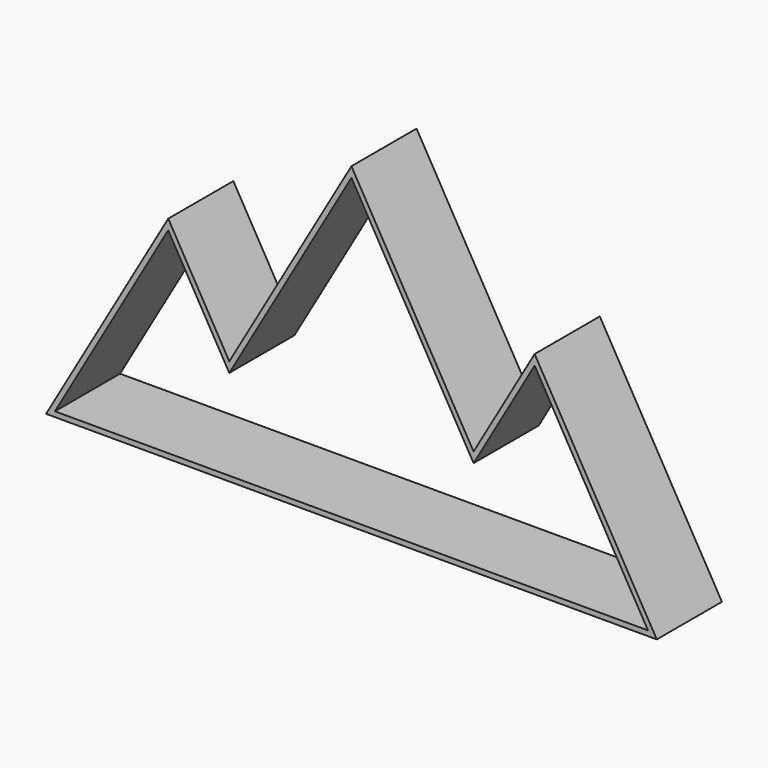
from build123d import *

# Parameters (mm, degrees)
F1_DEPTH = 101.6
F2_T     = -6.35
F4_DEPTH = 6.35


with BuildPart() as f1:
    # F0 (on Front) → F1 (new body)
    with BuildSketch(Plane.XZ):
        Polygon((152.4, 263.9645430735), (0, 0), (762, 0), (609.6, 263.9645430735), (533.4, 131.9822715367), (381, 395.9468146102), (228.6, 131.9822715367), align=None)
    extrude(amount=F1_DEPTH)

    # F2
    f2_openings = [f1.faces().sort_by_distance(p)[0] for p in [
        (381, -101.6, 120.250514),
    ]]
    offset(amount=F2_T, openings=f2_openings, kind=Kind.INTERSECTION)

    # F3 (on face) → F4 (cut)
    with BuildSketch(Plane.XZ.offset(6.35)):
        Polygon((152.4, 251.2645430735), (10.9985226281, 6.35), (751.0014773719, 6.35), (609.6, 251.2645430735), (533.4, 119.2822715367), (381, 383.2468146102), (228.6, 119.2822715367), align=None)
    extrude(amount=-F4_DEPTH, mode=Mode.SUBTRACT)


solid = f1.part
